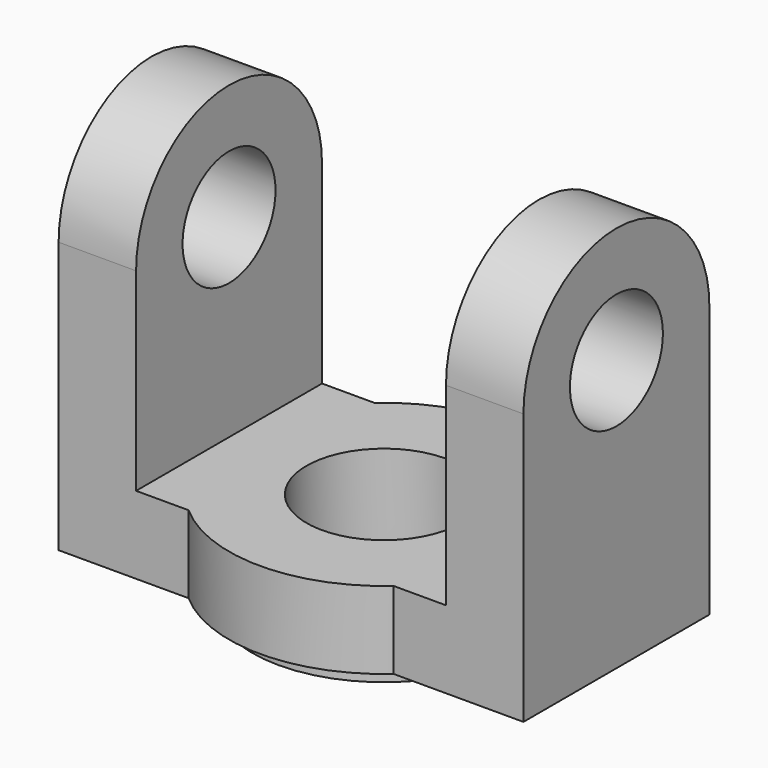
from build123d import *

# Parameters (mm, degrees)
F0_R          = 7.5
F1_DEPTH      = 30
F2_W          = 40
F2_H          = 40
F3_DEPTH      = 25
F3_DEPTH_BACK = 25
F4_R          = 20
F5_DEPTH      = 10
F6_R          = 10
F7_DEPTH      = 50.001
F7_DEPTH_BACK = 25
F8_R          = 17
F9_DEPTH      = 2.5
F10_DEPTH     = 25


with BuildPart() as f1:
    # F0 (on Right) → F1 (new body, symmetric)
    with BuildSketch(Plane.YZ):
        with BuildLine():
            Line((-15, 35), (-15, 0))
            Line((-15, 0), (15, 0))
            Line((15, 0), (15, 35))
            ThreePointArc((15, 35), (0, 50), (-15, 35))
        make_face()
        with Locations((0, 35)):
            Circle(F0_R, mode=Mode.SUBTRACT)
    extrude(amount=F1_DEPTH, both=True)

    # F2 (on Front) → F3 (cut, two sides)
    with BuildSketch(Plane.XZ) as f3_sk:
        with Locations((0, 30)):
            Rectangle(F2_W, F2_H)
    extrude(amount=-F3_DEPTH, mode=Mode.SUBTRACT)
    extrude(f3_sk.sketch, amount=F3_DEPTH_BACK, mode=Mode.SUBTRACT)

    # F4 (on Top) → F5 (join)
    with BuildSketch(Plane.XY):
        Circle(F4_R)
    extrude(amount=F5_DEPTH)

    # F6 (on Top) → F7 (cut, two sides)
    with BuildSketch(Plane.XY) as f7_sk:
        Circle(F6_R)
    extrude(amount=F7_DEPTH, mode=Mode.SUBTRACT)
    extrude(f7_sk.sketch, amount=-F7_DEPTH_BACK, mode=Mode.SUBTRACT)

    # F8 (on Top) → F9 (join)
    with BuildSketch(Plane.XY):
        Circle(F8_R)
    extrude(amount=-F9_DEPTH)

    # F10 (cut): a face of the model
    f10_faces = [f1.faces().sort_by_distance(p)[0] for p in [
        (0, 0, 0),
    ]]
    extrude(f10_faces, amount=-F10_DEPTH, mode=Mode.SUBTRACT)


solid = f1.part
